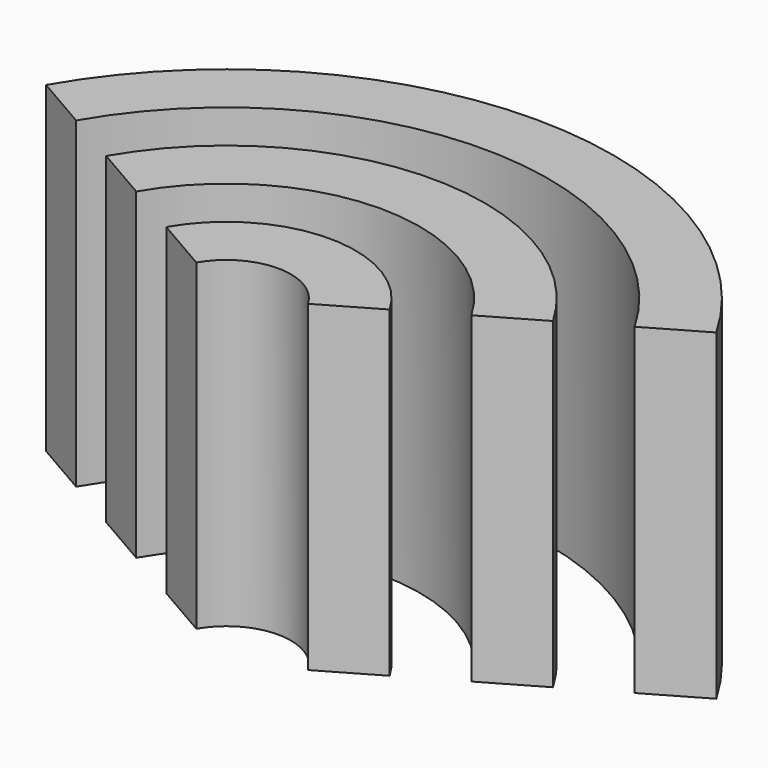
from build123d import *

# Parameters (mm, degrees)
CYLINDER026_W               = 6
CYLINDER026_H               = 10
CYLINDER026_ANGLE           = 120
CYLINDER026_PLACEMENT_ANGLE = 30
CYLINDER021_W               = 8
CYLINDER021_H               = 10
CYLINDER021_ANGLE           = 120
CYLINDER021_PLACEMENT_ANGLE = 30
CYLINDER024_W               = 2
CYLINDER024_H               = 10
CYLINDER024_ANGLE           = 120
CYLINDER024_PLACEMENT_ANGLE = 30
CYLINDER022_W               = 4
CYLINDER022_H               = 10
CYLINDER022_ANGLE           = 120
CYLINDER022_PLACEMENT_ANGLE = 30
CYLINDER025_W               = 10
CYLINDER025_H               = 10
CYLINDER025_ANGLE           = 120
CYLINDER025_PLACEMENT_ANGLE = 30
CYLINDER023_W               = 12
CYLINDER023_H               = 10
CYLINDER023_ANGLE           = 120
CYLINDER023_PLACEMENT_ANGLE = 30


with BuildPart() as cilindro017:
    # Cylinder026 → Cylinder026 (revolve)
    with BuildSketch(Plane.XZ):
        with Locations((3, 5)):
            Rectangle(CYLINDER026_W, CYLINDER026_H)
    revolve(axis=Axis((0, 0, 0), (0, 0, 1)), revolution_arc=CYLINDER026_ANGLE)


with BuildPart() as cilindro017_1:
    # Cylinder026 placement: moved
    add(cilindro017.part.moved(Location((-30.75, -30, 0))).rotate(Axis((-30.75, -30, 0), (0, 0, 1)), CYLINDER026_PLACEMENT_ANGLE))


with BuildPart() as obj1:
    # Cylinder021 → Cylinder021 (revolve)
    with BuildSketch(Plane.XZ):
        with Locations((4, 5)):
            Rectangle(CYLINDER021_W, CYLINDER021_H)
    revolve(axis=Axis((0, 0, 0), (0, 0, 1)), revolution_arc=CYLINDER021_ANGLE)


with BuildPart() as obj1_1:
    # Cylinder021 placement: moved
    add(obj1.part.moved(Location((-30.75, -30, 0))).rotate(Axis((-30.75, -30, 0), (0, 0, 1)), CYLINDER021_PLACEMENT_ANGLE))

    # Cut008: cut Cilindro017
    add(cilindro017_1.part, mode=Mode.SUBTRACT)


with BuildPart() as cilindro015:
    # Cylinder024 → Cylinder024 (revolve)
    with BuildSketch(Plane.XZ):
        with Locations((1, 5)):
            Rectangle(CYLINDER024_W, CYLINDER024_H)
    revolve(axis=Axis((0, 0, 0), (0, 0, 1)), revolution_arc=CYLINDER024_ANGLE)


with BuildPart() as cilindro015_1:
    # Cylinder024 placement: moved
    add(cilindro015.part.moved(Location((-30.75, -30, 0))).rotate(Axis((-30.75, -30, 0), (0, 0, 1)), CYLINDER024_PLACEMENT_ANGLE))


with BuildPart() as obj2:
    # Cylinder022 → Cylinder022 (revolve)
    with BuildSketch(Plane.XZ):
        with Locations((2, 5)):
            Rectangle(CYLINDER022_W, CYLINDER022_H)
    revolve(axis=Axis((0, 0, 0), (0, 0, 1)), revolution_arc=CYLINDER022_ANGLE)


with BuildPart() as obj2_1:
    # Cylinder022 placement: moved
    add(obj2.part.moved(Location((-30.75, -30, 0))).rotate(Axis((-30.75, -30, 0), (0, 0, 1)), CYLINDER022_PLACEMENT_ANGLE))

    # Cut010: cut Cilindro015
    add(cilindro015_1.part, mode=Mode.SUBTRACT)


with BuildPart() as cilindro016:
    # Cylinder025 → Cylinder025 (revolve)
    with BuildSketch(Plane.XZ):
        with Locations((5, 5)):
            Rectangle(CYLINDER025_W, CYLINDER025_H)
    revolve(axis=Axis((0, 0, 0), (0, 0, 1)), revolution_arc=CYLINDER025_ANGLE)


with BuildPart() as cilindro016_1:
    # Cylinder025 placement: moved
    add(cilindro016.part.moved(Location((-30.75, -30, 0))).rotate(Axis((-30.75, -30, 0), (0, 0, 1)), CYLINDER025_PLACEMENT_ANGLE))


with BuildPart() as fusion002:
    # Cylinder023 → Cylinder023 (revolve)
    with BuildSketch(Plane.XZ):
        with Locations((6, 5)):
            Rectangle(CYLINDER023_W, CYLINDER023_H)
    revolve(axis=Axis((0, 0, 0), (0, 0, 1)), revolution_arc=CYLINDER023_ANGLE)


with BuildPart() as fusion002_1:
    # Cylinder023 placement: moved
    add(fusion002.part.moved(Location((-30.75, -30, 0))).rotate(Axis((-30.75, -30, 0), (0, 0, 1)), CYLINDER023_PLACEMENT_ANGLE))

    # Cut009: cut Cilindro016
    add(cilindro016_1.part, mode=Mode.SUBTRACT)

    # Fusion002: union obj1, obj2
    add(obj1_1.part)
    add(obj2_1.part)


with BuildPart() as fusion002_2:
    # Fusion002 placement: moved
    add(fusion002_1.part.moved(Location((0, 0, -6))))


solid = fusion002_2.part
